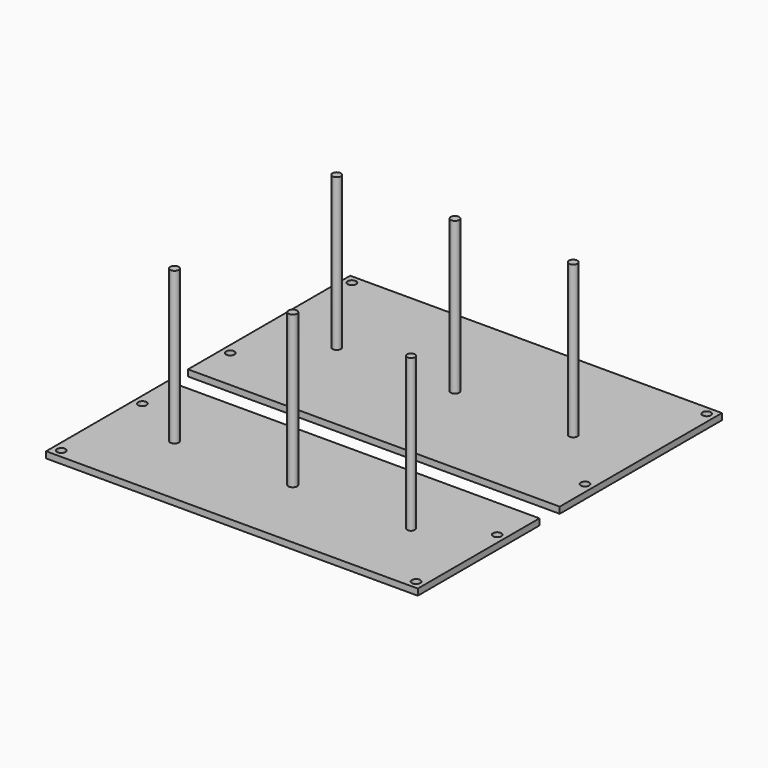
from build123d import *

# Parameters (mm, degrees)
F0_W      = 1117.6
F0_H      = 609.6
F1_DEPTH  = 19.05
F2_W      = 1117.6
F2_H      = 457.2
F3_DEPTH  = 19.05
F4_R      = 12.7
F6_DEPTH  = 25.4
F5_R      = 12.7
F7_DEPTH  = 25.4
F8_R      = 12.7
F9_DEPTH  = 457.2
F10_R     = 12.7
F10_R_2   = 11.725759
F10_R_3   = 12.964019
F11_DEPTH = 457.2


with BuildPart() as f1:
    # F0 (on Top) → F1 (new body)
    with BuildSketch(Plane.XY):
        Rectangle(F0_W, F0_H)
    extrude(amount=F1_DEPTH)

    # F4 (on face) → F6 (cut)
    with BuildSketch(Plane.XY.offset(19.05)):
        with Locations((533.4, 279.4)):
            Circle(F4_R)
        with Locations((533.4, -177.8)):
            Circle(F4_R)
        with Locations((-533.4, -177.8)):
            Circle(F4_R)
        with Locations((-533.4, 279.4)):
            Circle(F4_R)
    extrude(amount=-F6_DEPTH, mode=Mode.SUBTRACT)

    # F8 (on face) → F9 (join)
    with BuildSketch(Plane.XY.offset(19.05)):
        with Locations((-355.6, 0)):
            Circle(F8_R)
        Circle(F8_R)
        with Locations((355.6, 0)):
            Circle(F8_R)
    extrude(amount=F9_DEPTH)


with BuildPart() as f3:
    # F2 (on face) → F3 (new body)
    with BuildSketch(Plane.XY.offset(19.05)):
        with Locations((0, -609.6)):
            Rectangle(F2_W, F2_H)
    extrude(amount=-F3_DEPTH)

    # F5 (on face) → F7 (cut)
    with BuildSketch(Plane.XY.offset(19.05)):
        with Locations((-533.4, -508)):
            Circle(F5_R)
        with Locations((-533.4, -812.8)):
            Circle(F5_R)
        with Locations((533.4, -812.8)):
            Circle(F5_R)
        with Locations((533.4, -508)):
            Circle(F5_R)
    extrude(amount=-F7_DEPTH, mode=Mode.SUBTRACT)

    # F10 (on face) → F11 (join)
    with BuildSketch(Plane.XY.offset(19.05)):
        with Locations((-355.6, -609.6)):
            Circle(F10_R)
        with Locations((355.6, -609.6)):
            Circle(F10_R_2)
        with Locations((0, -609.6)):
            Circle(F10_R_3)
    extrude(amount=F11_DEPTH)


solid = Compound([f1.part, f3.part])
